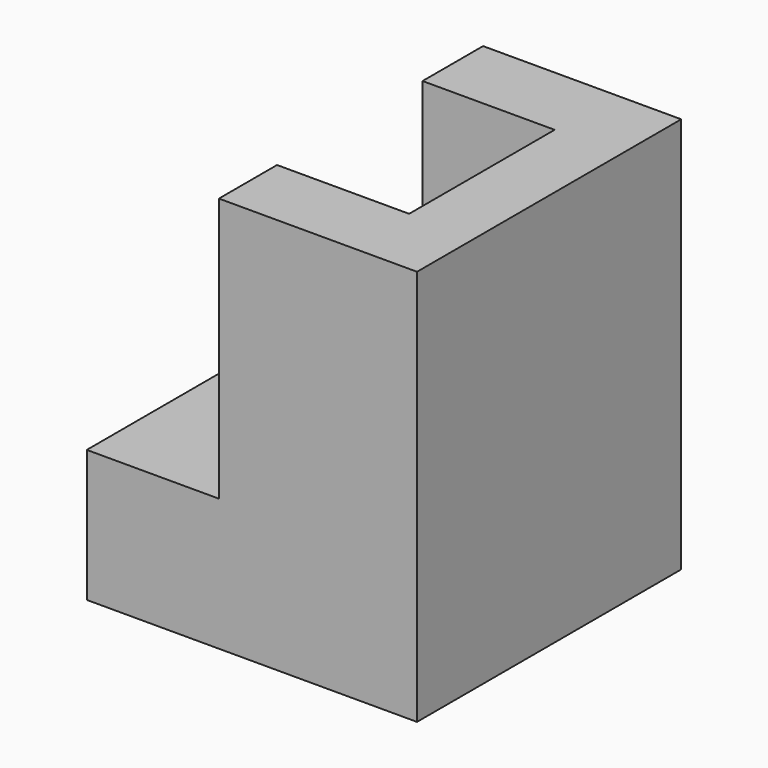
from build123d import *

# Parameters (mm, degrees)
F1_DEPTH = 63.5
F2_W     = 34.975359
F2_H     = 30.647813
F3_DEPTH = 25.4


with BuildPart() as f1:
    # F0 (on Front) → F1 (new body)
    with BuildSketch(Plane.XZ):
        Polygon((-55.013734, -3.902573), (-55.013734, -29.302573), (8.486266, -29.302573), (8.486266, 46.897427), (-29.613734, 46.897427), (-29.613734, -3.902573), align=None)
    extrude(amount=F1_DEPTH)

    # F2 (on face) → F3 (cut)
    with BuildSketch(Plane(origin=(-29.613734, 0, 0), x_dir=(0, -1, 0), z_dir=(-1, 0, 0))):
        with Locations((32.034951, 31.573521)):
            Rectangle(F2_W, F2_H)
    extrude(amount=-F3_DEPTH, mode=Mode.SUBTRACT)


solid = f1.part
